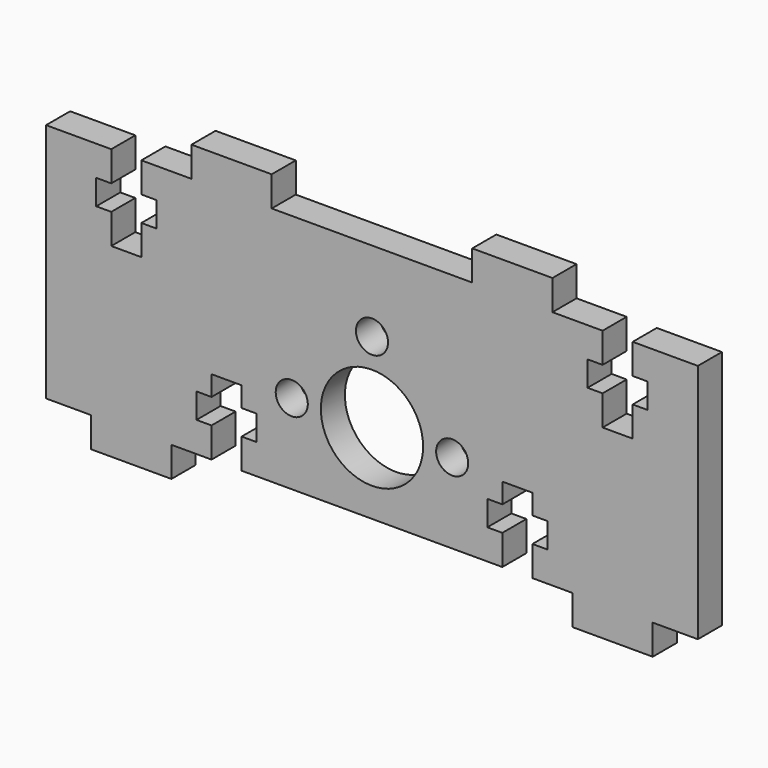
from build123d import *

# Parameters (mm, degrees)
F0_R     = 5.1
F1_DEPTH = 3
F3_DEPTH = 3
F5_D     = 3.2
F5_DEPTH = 10
F5_TIP   = 0.9613769904


with BuildPart() as f1:
    # F0 (on Front) → F1 (new body)
    with BuildSketch(Plane.XZ):
        Polygon((28, -8), (32.5, -8), (32.5, 16), (18, 16), (18, 19), (10, 19), (10, 16), (0, 16), (-10, 16), (-10, 19), (-18, 19), (-18, 16), (-32.5, 16), (-32.5, -8), (-28, -8), (-28, -11), (-20, -11), (-20, -8), (0, -8), (20, -8), (20, -11), (28, -11), align=None)
        Circle(F0_R, mode=Mode.SUBTRACT)
    extrude(amount=F1_DEPTH)

    # F2 (on face) → F3 (cut, through all)
    with BuildSketch(Plane(origin=(0, 0, 0), x_dir=(-1, 0, 0), z_dir=(0, 1, 0))):
        Polygon((13, -5), (13, -8), (16, -8), (16, -5), (17.5, -5), (17.5, -2.5), (16, -2.5), (16, -0.5), (13, -0.5), (13, -2.5), (11.5, -2.5), (11.5, -5), align=None)
        Polygon((-16, -8), (-13, -8), (-13, -5), (-11.5, -5), (-11.5, -2.5), (-13, -2.5), (-13, -0.5), (-16, -0.5), (-16, -2.5), (-17.5, -2.5), (-17.5, -5), (-16, -5), align=None)
        Polygon((26, 13), (26, 16), (23, 16), (23, 13), (21.5, 13), (21.5, 10.5), (23, 10.5), (23, 7.5), (26, 7.5), (26, 10.5), (27.5, 10.5), (27.5, 13), align=None)
        Polygon((-23, 16), (-26, 16), (-26, 13), (-27.5, 13), (-27.5, 10.5), (-26, 10.5), (-26, 7.5), (-23, 7.5), (-23, 10.5), (-21.5, 10.5), (-21.5, 13), (-23, 13), align=None)
    extrude(amount=-F3_DEPTH, mode=Mode.SUBTRACT)

    # F5
    with Locations(Plane.XZ.offset(3)):
        with Locations((-8, 0), (0, 8), (8, 0)):
            Hole(F5_D / 2, depth=F5_DEPTH)
            with Locations((0, 0, -(F5_DEPTH + F5_TIP / 2))):  # 118° drill point
                Cone(0, F5_D / 2, F5_TIP, mode=Mode.SUBTRACT)


solid = f1.part
